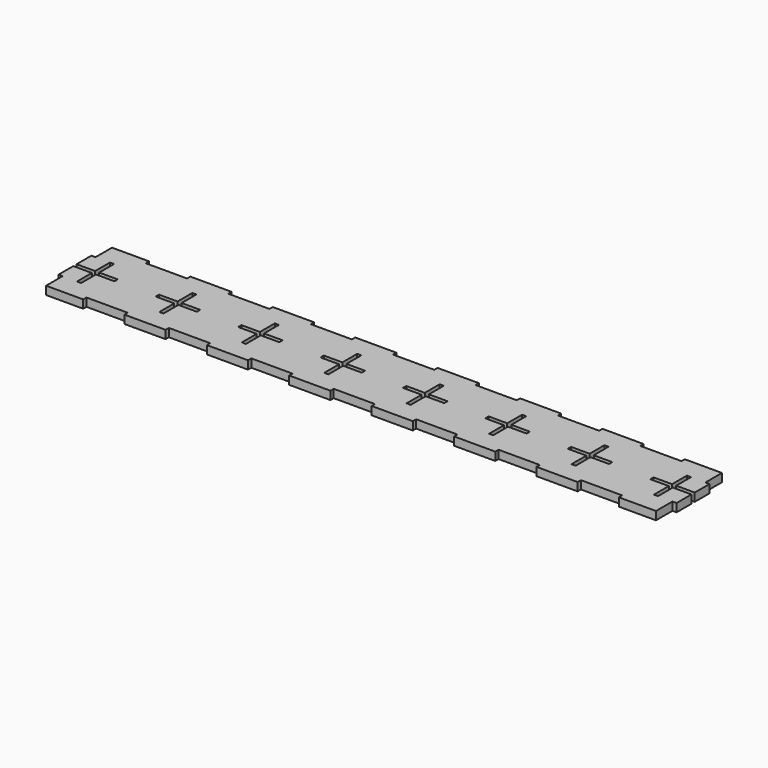
from build123d import *

# Parameters (mm, degrees)
F0_W     = 1500
F0_H     = 200
F1_DEPTH = 20
F2_W     = 100
F2_H     = 10
F3_DEPTH = 20.001
F5_DEPTH = 20.001
F6_W     = 10
F6_H     = 50
F7_DEPTH = 20.001


with BuildPart() as f1:
    # F0 (on Top) → F1 (new body)
    with BuildSketch(Plane.XY):
        Rectangle(F0_W, F0_H)
    extrude(amount=F1_DEPTH)

    # F2 (on face) → F3 (cut, through all)
    with BuildSketch(Plane.XY.offset(20)):
        with Locations((-600, 95)):
            Rectangle(F2_W, F2_H)
        with Locations((-600, -95)):
            Rectangle(F2_W, F2_H)
        with Locations((-400, 95)):
            Rectangle(F2_W, F2_H)
        with Locations((-400, -95)):
            Rectangle(F2_W, F2_H)
        with Locations((-200, 95)):
            Rectangle(F2_W, F2_H)
        with Locations((-200, -95)):
            Rectangle(F2_W, F2_H)
        with Locations((0, 95)):
            Rectangle(F2_W, F2_H)
        with Locations((0, -95)):
            Rectangle(F2_W, F2_H)
        with Locations((200, 95)):
            Rectangle(F2_W, F2_H)
        with Locations((200, -95)):
            Rectangle(F2_W, F2_H)
        with Locations((400, 95)):
            Rectangle(F2_W, F2_H)
        with Locations((400, -95)):
            Rectangle(F2_W, F2_H)
        with Locations((600, 95)):
            Rectangle(F2_W, F2_H)
        with Locations((600, -95)):
            Rectangle(F2_W, F2_H)
    extrude(amount=-F3_DEPTH, mode=Mode.SUBTRACT)

    # F4 (on face) → F5 (cut, through all)
    with BuildSketch(Plane.XY.offset(20)):
        Polygon((-695, 50), (-705, 50), (-705, 5), (-750, 5), (-750, -5), (-705, -5), (-705, -50), (-695, -50), (-695, -5), (-650, -5), (-650, 5), (-695, 5), align=None)
        Polygon((-495, -50), (-495, -5), (-450, -5), (-450, 5), (-495, 5), (-495, 50), (-505, 50), (-505, 5), (-550, 5), (-550, -5), (-505, -5), (-505, -50), align=None)
        Polygon((-295, -50), (-295, -5), (-250, -5), (-250, 5), (-295, 5), (-295, 50), (-305, 50), (-305, 5), (-350, 5), (-350, -5), (-305, -5), (-305, -50), align=None)
        Polygon((-95, -50), (-95, -5), (-50, -5), (-50, 5), (-95, 5), (-95, 50), (-105, 50), (-105, 5), (-150, 5), (-150, -5), (-105, -5), (-105, -50), align=None)
        Polygon((105, -50), (105, -5), (150, -5), (150, 5), (105, 5), (105, 50), (95, 50), (95, 5), (50, 5), (50, -5), (95, -5), (95, -50), align=None)
        Polygon((305, -50), (305, -5), (350, -5), (350, 5), (305, 5), (305, 50), (295, 50), (295, 5), (250, 5), (250, -5), (295, -5), (295, -50), align=None)
        Polygon((505, -50), (505, -5), (550, -5), (550, 5), (505, 5), (505, 50), (495, 50), (495, 5), (450, 5), (450, -5), (495, -5), (495, -50), align=None)
        Polygon((705, -50), (705, -5), (750, -5), (750, 5), (705, 5), (705, 50), (695, 50), (695, 5), (650, 5), (650, -5), (695, -5), (695, -50), align=None)
    extrude(amount=-F5_DEPTH, mode=Mode.SUBTRACT)

    # F6 (on face) → F7 (cut, through all)
    with BuildSketch(Plane.XY.offset(20)):
        with Locations((-745, 75)):
            Rectangle(F6_W, F6_H)
        with Locations((-745, -75)):
            Rectangle(F6_W, F6_H)
        with Locations((745, 75)):
            Rectangle(F6_W, F6_H)
        with Locations((745, -75)):
            Rectangle(F6_W, F6_H)
    extrude(amount=-F7_DEPTH, mode=Mode.SUBTRACT)


solid = f1.part
